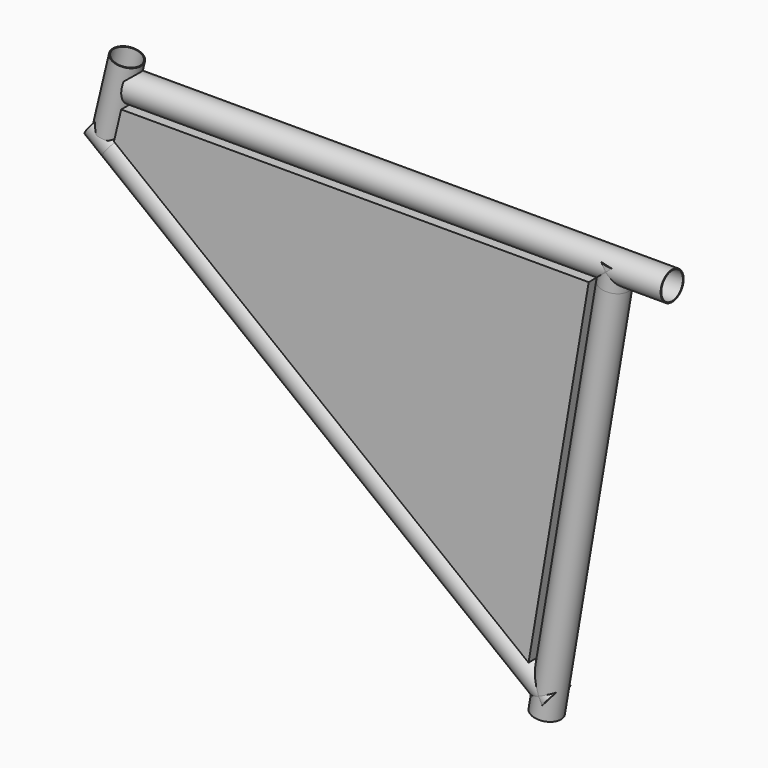
from build123d import *

# Parameters (mm, degrees)
F1_DEPTH  = 32
F3_R      = 16
F3_R_2    = 15
F4_DEPTH  = 600
F6_R      = 16
F6_R_2    = 15
F7_DEPTH  = 40
F9_R      = 16
F9_R_2    = 15
F10_DEPTH = 620
F11_DEPTH = 25
F13_R     = 16
F13_R_2   = 15
F14_DEPTH = 450
F15_DEPTH = 25


with BuildPart() as f1:
    # F0 (on Front) → F1 (new body)
    with BuildSketch(Plane.XZ):
        Polygon((452.473682055, -0.6838418776), (-67.526317945, -0.6838418776), (-75.6146724134, -34.7364265371), (385.5628752696, -395.0478158095), align=None)
    extrude(amount=F1_DEPTH)

    # F3 (on face) → F4 (join)
    with BuildSketch(Plane.YZ.offset(-67.526317945)):
        with Locations((-16, 15.3161581224)):
            Circle(F3_R)
        with Locations((-16, 15.3161581224)):
            Circle(F3_R_2, mode=Mode.SUBTRACT)
    extrude(amount=F4_DEPTH)


with BuildPart() as f7:
    # F6 (on line) → F7 (new body, symmetric)
    with BuildSketch(Plane(origin=(-3.7600176862, 0, -15.8299591194), x_dir=(0.9729309903, 0, -0.231095842), z_dir=(0.231095842, 0, 0.9729309903))):
        with Locations((-81.5404143731, -16)):
            Circle(F6_R)
        with Locations((-81.5404143731, -16)):
            Circle(F6_R_2, mode=Mode.SUBTRACT)
    extrude(amount=F7_DEPTH, both=True)


with BuildPart() as f10:
    # F9 (on face) → F10 (new body)
    with BuildSketch(Plane(origin=(-30.1014555419, 0, 23.5178345518), x_dir=(0, -1, 0), z_dir=(-0.7880107536, 0, 0.6156614753))):
        with Locations((16, -89.9257184274)):
            Circle(F9_R)
        with Locations((16, -89.9257184274)):
            Circle(F9_R_2, mode=Mode.SUBTRACT)
        with Locations((16, -89.9257184274)):
            Circle(F9_R_2)
    extrude(amount=-F10_DEPTH)

    # F9 (on face) → F11 (join)
    with BuildSketch(Plane(origin=(-30.1014555419, 0, 23.5178345518), x_dir=(0, -1, 0), z_dir=(-0.7880107536, 0, 0.6156614753))):
        with Locations((16, -89.9257184274)):
            Circle(F9_R)
        with Locations((16, -89.9257184274)):
            Circle(F9_R_2, mode=Mode.SUBTRACT)
    extrude(amount=F11_DEPTH)


with BuildPart() as f14:
    # F13 (on line) → F14 (new body)
    with BuildSketch(Plane(origin=(12.5481585124, 0, 73.9572857393), x_dir=(0.9859099348, 0, -0.167277017), z_dir=(0.167277017, 0, 0.9859099348))):
        with Locations((462.2126894164, -16)):
            Circle(F13_R)
        with Locations((462.2126894164, -16)):
            Circle(F13_R_2, mode=Mode.SUBTRACT)
    extrude(amount=-F14_DEPTH)

    # F13 (on line) → F15 (join)
    with BuildSketch(Plane(origin=(12.5481585124, 0, 73.9572857393), x_dir=(0.9859099348, 0, -0.167277017), z_dir=(0.167277017, 0, 0.9859099348))):
        with Locations((462.2126894164, -16)):
            Circle(F13_R)
        with Locations((462.2126894164, -16)):
            Circle(F13_R_2, mode=Mode.SUBTRACT)
    extrude(amount=F15_DEPTH)


solid = Compound([f1.part, f7.part, f10.part, f14.part])
